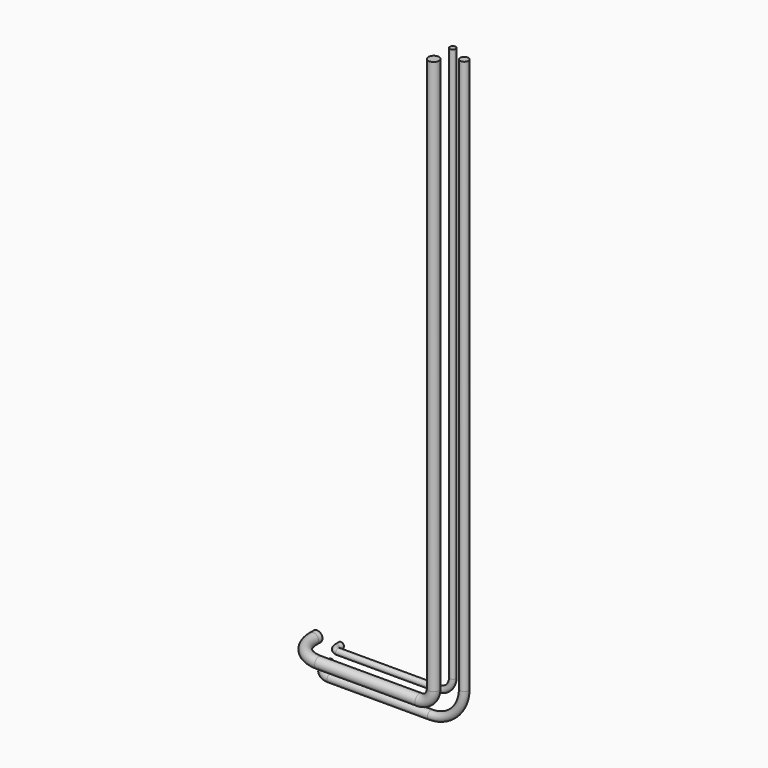
from build123d import *

# Parameters (mm, degrees)
F0_R        = 11.1125
F0_R_2      = 7.9375
F0_R_3      = 14.2875
F2_FACE_R   = 7.9375
F2_FACE_R_2 = 14.2875
F2_FACE_R_3 = 11.1125


with BuildPart() as f2:
    # F2: sweep along a path in F1
    with BuildLine(Plane.XY) as f2_path:
        Line((0, 0), (0, -12.7))
        ThreePointArc((0, -12.7), (11.1592316368, -39.6407683632), (38.1, -50.8))
        Line((38.1, -50.8), (304.8, -50.8))
    # F0 (on Front) → F2 (sweep)
    with BuildSketch(Plane.XZ):
        Circle(F0_R)
        with Locations((25.4, 50.8)):
            Circle(F0_R_2)
        with Locations((-38.1, 50.8)):
            Circle(F0_R_3)
    sweep(path=f2_path.line)

    # F5: sweep along a path in F4
    with BuildLine(Plane.XZ.offset(50.8)) as f5_path:
        ThreePointArc((304.8, 50.8), (331.7407683632, 61.9592316368), (342.9, 88.9))
        Line((342.9, 88.9), (342.9, 1562.1))
    # F2_face (on face) → F5 (sweep)
    with BuildSketch(Plane(origin=(304.8, -25.4, 50.8), x_dir=(0, 1, 0), z_dir=(1, 0, 0))):
        Circle(F2_FACE_R)
        with Locations((-63.5, 0)):
            Circle(F2_FACE_R_2)
        with Locations((-25.4, -50.8)):
            Circle(F2_FACE_R_3)
    sweep(path=f5_path.line)


solid = f2.part
